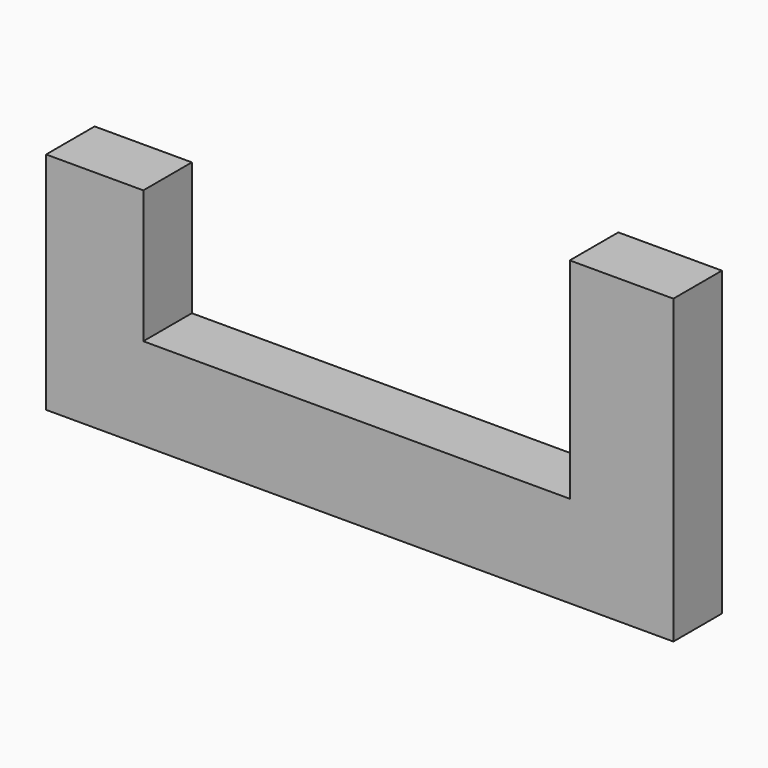
from build123d import *

# Parameters (mm, degrees)
F0_W     = 158.1
F0_H     = 34.119888
F1_DEPTH = 22.5


with BuildPart() as f1:
    # F0 (on Front) → F1 (new body)
    with BuildSketch(Plane.XZ):
        Polygon((0, 34.119888), (0, 0), (38.411202, 0), (38.411202, 111.919888), (0, 111.919888), align=None)
        with Locations((-79.05, 17.059944)):
            Rectangle(F0_W, F0_H)
        Polygon((-194.143536, 0), (-158.1, 0), (-158.1, 34.119888), (-158.1, 83.356251), (-194.143536, 83.356251), align=None)
    extrude(amount=-F1_DEPTH)


solid = f1.part
